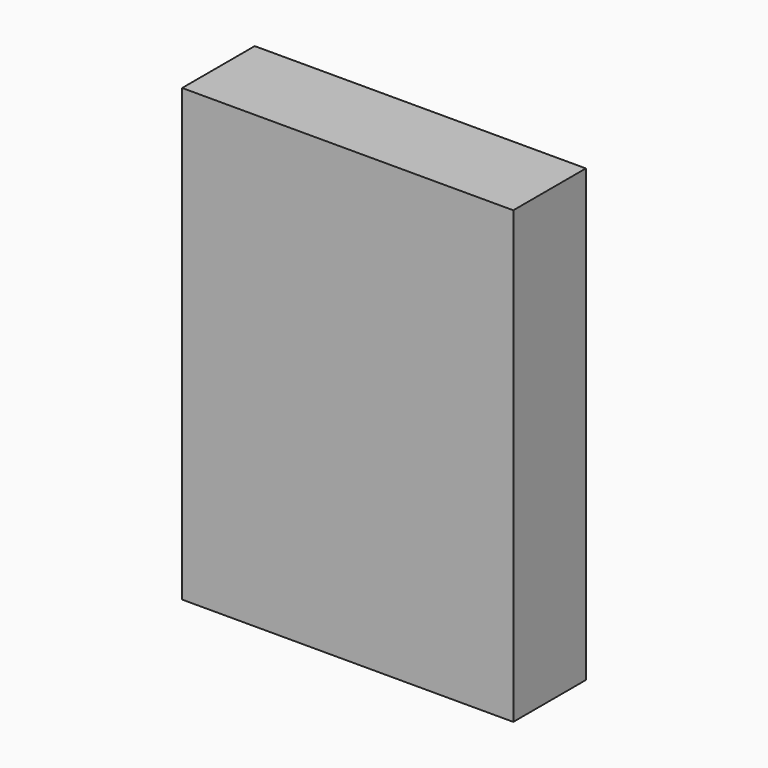
from build123d import *

# Parameters (mm, degrees)
F0_W     = 30.8356
F0_H     = 30.8356
F1_DEPTH = 37.084


with BuildPart() as f1:
    # F0 (on Front) → F1 (new body)
    with BuildSketch(Plane.XZ):
        with Locations((-15.4178, 120.607913)):
            Rectangle(F0_W, F0_H)
        with Locations((15.4178, 120.607913)):
            Rectangle(F0_W, F0_H)
        Polygon((0, 105.190113), (-30.8356, 105.190113), (-30.8356, -48.124287), (104.5464, -48.124287), (104.5464, 136.025713), (92.5068, 136.025713), (92.5068, 105.190113), (61.6712, 105.190113), (30.8356, 105.190113), align=None)
        with Locations((46.2534, 120.607913)):
            Rectangle(F0_W, F0_H)
        with Locations((77.089, 120.607913)):
            Rectangle(F0_W, F0_H)
    extrude(amount=F1_DEPTH)


solid = f1.part
